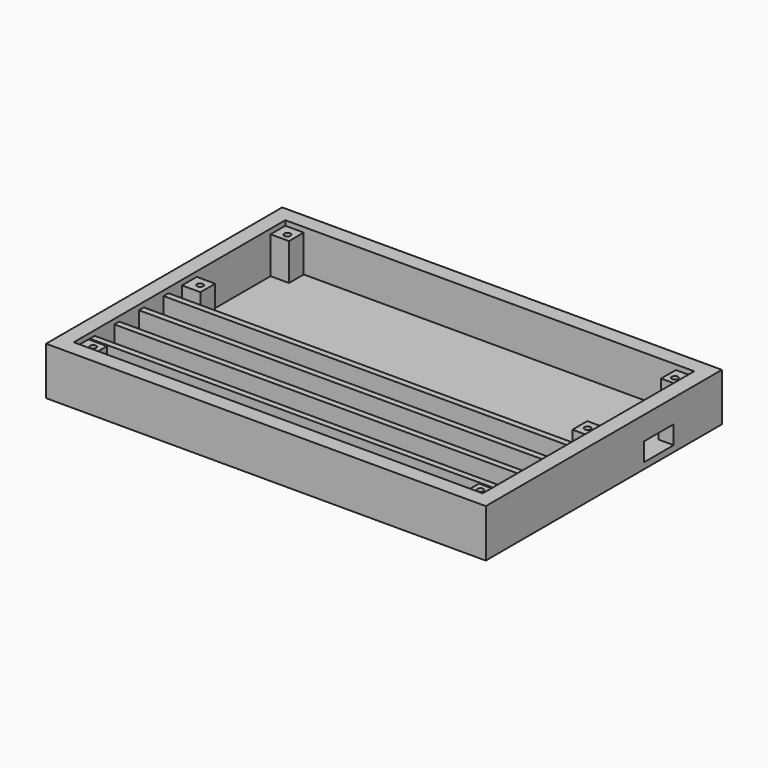
from build123d import *

# Parameters (mm, degrees)
SKETCH_W        = 143
SKETCH_H        = 96
PAD_DEPTH       = 15.6
SKETCH001_W     = 133
SKETCH001_H     = 86
POCKET_DEPTH    = 13.6
SKETCH002_W     = 6
SKETCH002_H     = 6
PAD001_DEPTH    = 12
SKETCH003_R     = 1
POCKET001_DEPTH = 11.6
SKETCH004_W     = 12
SKETCH004_H     = 6
POCKET002_DEPTH = 5.001
SKETCH005_W     = 133
SKETCH005_H     = 2
PAD002_DEPTH    = 12


with BuildPart() as part:
    # Sketch → Pad (new body)
    with BuildSketch(Plane.XY):
        with Locations((71.5, 48)):
            Rectangle(SKETCH_W, SKETCH_H)
    extrude(amount=-PAD_DEPTH)

    # Sketch001 (on Face5 of Pad) → Pocket (cut)
    with BuildSketch(Plane.XY):
        with Locations((71.5, 48)):
            Rectangle(SKETCH001_W, SKETCH001_H)
    extrude(amount=-POCKET_DEPTH, mode=Mode.SUBTRACT)

    # Sketch002 (on Face11 of Pocket) → Pad001 (join)
    with BuildSketch(Plane.XY.offset(-13.6)):
        with Locations((8, 8)):
            Rectangle(SKETCH002_W, SKETCH002_H)
        with Locations((135, 8)):
            Rectangle(SKETCH002_W, SKETCH002_H)
        with Locations((8, 52)):
            Rectangle(SKETCH002_W, SKETCH002_H)
        with Locations((135, 52)):
            Rectangle(SKETCH002_W, SKETCH002_H)
        with Locations((8, 88)):
            Rectangle(SKETCH002_W, SKETCH002_H)
        with Locations((135, 88)):
            Rectangle(SKETCH002_W, SKETCH002_H)
    extrude(amount=PAD001_DEPTH)

    # Sketch003 (on Face18 of Pad001) → Pocket001 (cut)
    with BuildSketch(Plane.XY.offset(-1.6)):
        with Locations((8.5, 87.5)):
            Circle(SKETCH003_R)
        with Locations((8.5, 52)):
            Circle(SKETCH003_R)
        with Locations((8.5, 8.5)):
            Circle(SKETCH003_R)
        with Locations((134.5, 87.5)):
            Circle(SKETCH003_R)
        with Locations((134.5, 52)):
            Circle(SKETCH003_R)
        with Locations((134.5, 8.5)):
            Circle(SKETCH003_R)
    extrude(amount=-POCKET001_DEPTH, mode=Mode.SUBTRACT)

    # Sketch004 (on Face9 of Pocket001) → Pocket002 (cut, through all)
    with BuildSketch(Plane(origin=(138, 0, 0), x_dir=(0, -1, 0), z_dir=(-1, 0, 0))):
        with Locations((-70.39, -10.6)):
            Rectangle(SKETCH004_W, SKETCH004_H)
    extrude(amount=-POCKET002_DEPTH, mode=Mode.SUBTRACT)

    # Sketch005 (on Face17 of Pocket002) → Pad002 (join)
    with BuildSketch(Plane.XY.offset(-13.6)):
        with Locations((71.5, 12.5)):
            Rectangle(SKETCH005_W, SKETCH005_H)
        with Locations((71.5, 22.5)):
            Rectangle(SKETCH005_W, SKETCH005_H)
        with Locations((71.5, 32.5)):
            Rectangle(SKETCH005_W, SKETCH005_H)
        with Locations((71.5, 42.5)):
            Rectangle(SKETCH005_W, SKETCH005_H)
    extrude(amount=PAD002_DEPTH)


solid = part.part
